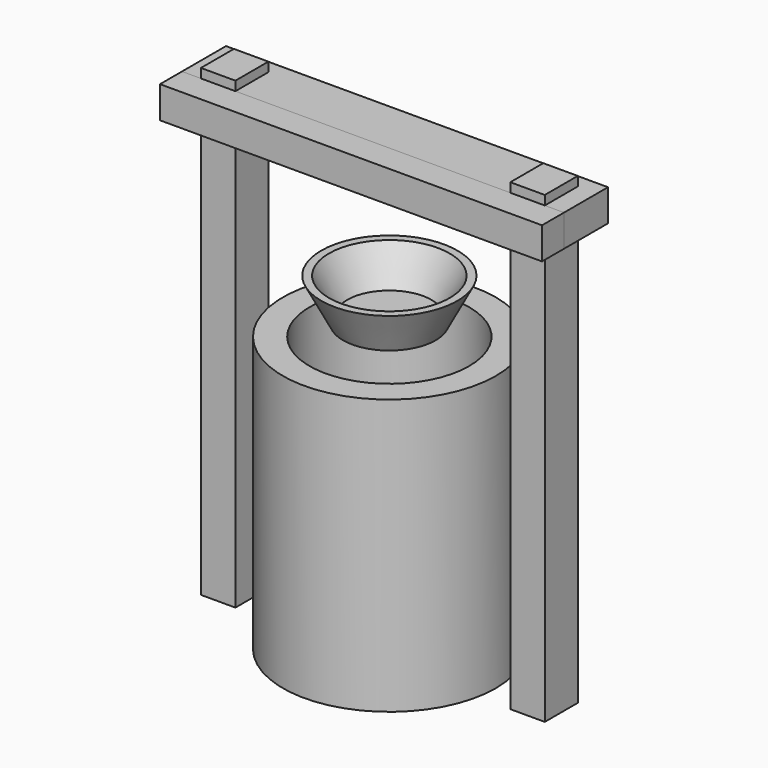
from build123d import *

# Parameters (mm, degrees)
F0_R     = 30.9978474474
F1_DEPTH = 80
F3_W     = 10.031348531
F3_H     = 12
F4_DEPTH = 135
F2_R     = 23.225828689
F6_DEPTH = 50
F7_W     = 111.1673414707
F7_H     = 9.2639476061
F8_DEPTH = 8
F9_DEPTH = 16
F13_T    = -2


with BuildPart() as f1:
    # F0 (on Top) → F1 (new body)
    with BuildSketch(Plane.XY):
        Circle(F0_R)
    extrude(amount=F1_DEPTH)

    # F2 (on face) → F6 (cut)
    with BuildSketch(Plane.XY.offset(80)):
        Circle(F2_R)
    extrude(amount=-F6_DEPTH, mode=Mode.SUBTRACT)


with BuildPart() as f4:
    # F3 (on Top) → F4 (new body)
    with BuildSketch(Plane.XY):
        with Locations((-45.0156742655, 0)):
            Rectangle(F3_W, F3_H)
    extrude(amount=F4_DEPTH)


with BuildPart() as f5_1:
    # F5: instance of F4
    add(f4.part.mirror(Plane.YZ))

    # F7 (on face) → F8 (join)
    with BuildSketch(Plane.XZ.offset(6)):
        with Locations((0.0420436263, 127.6696696877)):
            Rectangle(F7_W, F7_H)
    extrude(amount=F8_DEPTH)


with BuildPart() as f9:
    # F7 (on face) → F9 (new body)
    with BuildSketch(Plane.XZ.offset(6)):
        with Locations((0.0420436263, 127.6696696877)):
            Rectangle(F7_W, F7_H)
    extrude(amount=-F9_DEPTH)


with BuildPart() as f12:
    # F10 (on Front) → F12 (revolve)
    with BuildSketch(Plane.XZ):
        Polygon((-13.4781552479, 83.4328308702), (0, 83.4328308702), (0, 95.6050306559), (-19.8143702, 95.6050306559), align=None)
    revolve(axis=Axis((0, 0, 98.2741937041), (0, 0, 1)))

    # F13
    f13_openings = [f12.faces().sort_by_distance(p)[0] for p in [
        (0, 0, 95.605031),
    ]]
    offset(amount=F13_T, openings=f13_openings)


solid = Compound([f1.part, f4.part, f5_1.part, f9.part, f12.part])
